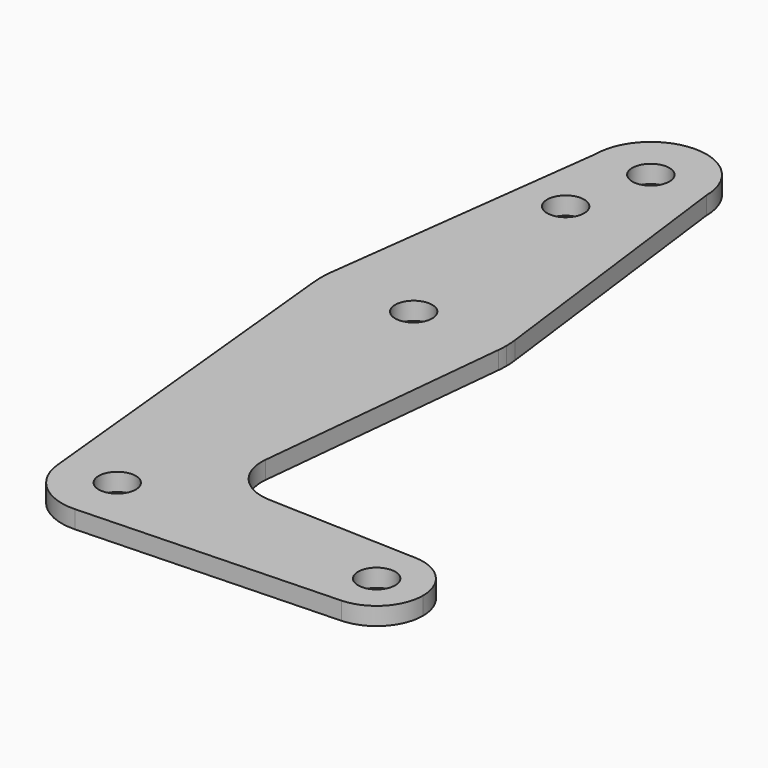
from build123d import *

# Parameters (mm, degrees)
F0_R     = 3.175
F1_DEPTH = 3.048


with BuildPart() as f1:
    # F0 (on Top) → F1 (new body)
    with BuildSketch(Plane.XY):
        with BuildLine():
            ThreePointArc((-9.525, 114.3), (0, 104.775), (9.525, 114.3))
            ThreePointArc((9.525, 114.3), (0, 123.825), (-9.525, 114.3))
        make_face()
        with Locations((0, 114.3)):
            Circle(F0_R, mode=Mode.SUBTRACT)
        with BuildLine():
            Line((15.747457, 65.508289), (9.525, 114.3))
            ThreePointArc((9.525, 114.3), (0, 104.775), (-9.525, 114.3))
            Line((-9.525, 114.3), (-15.747457, 65.508289))
            ThreePointArc((-15.747457, 65.508289), (0, 79.375), (15.747457, 65.508289))
        make_face()
        with Locations((-3.175, 100.0252)):
            Circle(F0_R, mode=Mode.SUBTRACT)
        with BuildLine():
            ThreePointArc((15.875, 63.5), (15.843082, 64.506168), (15.747457, 65.508289))
            ThreePointArc((15.747457, 65.508289), (0, 79.375), (-15.747457, 65.508289))
            ThreePointArc((-15.747457, 65.508289), (-15.873588, 63.711757), (-15.795426, 61.9125))
            ThreePointArc((-15.795426, 61.9125), (0, 47.625), (15.795426, 61.9125))
            ThreePointArc((15.795426, 61.9125), (15.855094, 62.705253), (15.875, 63.5))
        make_face()
        with Locations((0, 63.5)):
            Circle(F0_R, mode=Mode.SUBTRACT)
        with BuildLine():
            ThreePointArc((15.795426, 61.9125), (0, 47.625), (-15.795426, 61.9125))
            Line((-15.795426, 61.9125), (-9.477255, -0.9525))
            ThreePointArc((-9.477255, -0.9525), (-0.476848, 9.513056), (9.525, 0))
            ThreePointArc((9.525, 0), (6.854408, -6.613827), (0.340179, -9.518923))
            Line((0.340179, -9.518923), (44.733482, -7.932436))
            ThreePointArc((44.733482, -7.932436), (36.5125, 0), (44.733482, 7.932436))
            Line((44.733482, 7.932436), (18.9676, 8.853234))
            ThreePointArc((18.9676, 8.853234), (13.2612, 11.571359), (11.341187, 17.593382))
            Line((11.341187, 17.593382), (15.795426, 61.9125))
        make_face()
        with BuildLine():
            ThreePointArc((9.525, 0), (-0.476848, 9.513056), (-9.477255, -0.9525))
            ThreePointArc((-9.477255, -0.9525), (-6.262383, -7.17692), (0.340179, -9.518923))
            ThreePointArc((0.340179, -9.518923), (6.854408, -6.613827), (9.525, 0))
        make_face()
        Circle(F0_R, mode=Mode.SUBTRACT)
        with BuildLine():
            ThreePointArc((44.733482, 7.932436), (36.5125, 0), (44.733482, -7.932436))
            ThreePointArc((44.733482, -7.932436), (50.162007, -5.511523), (52.3875, 0))
            ThreePointArc((52.3875, 0), (50.162007, 5.511523), (44.733482, 7.932436))
        make_face()
        with Locations((44.45, 0)):
            Circle(F0_R, mode=Mode.SUBTRACT)
    extrude(amount=F1_DEPTH)


solid = f1.part
